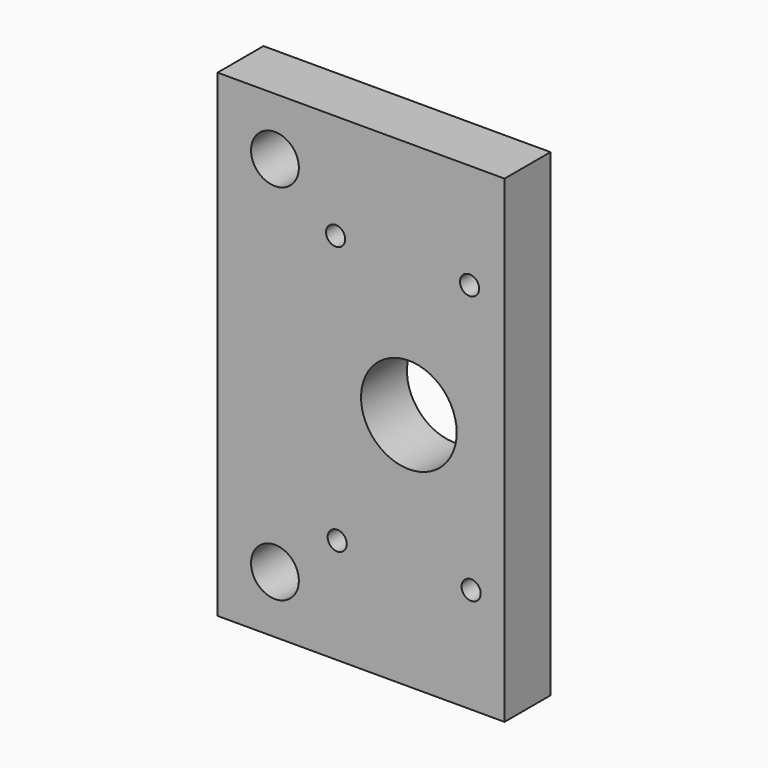
from build123d import *

# Parameters (mm, degrees)
F0_R     = 12.5
F0_R_2   = 5
F0_R_3   = 25
F1_DEPTH = 30


with BuildPart() as f1:
    # F0 (on Front) → F1 (new body)
    with BuildSketch(Plane.XZ):
        Polygon((75, -70), (75, 125), (-75, 125), (-75, -125), (75, -125), align=None)
        with Locations((-45, -95)):
            Circle(F0_R, mode=Mode.SUBTRACT)
        with Locations((-12.458926, -70)):
            Circle(F0_R_2, mode=Mode.SUBTRACT)
        with Locations((57.541074, -70)):
            Circle(F0_R_2, mode=Mode.SUBTRACT)
        with Locations((-45, 95)):
            Circle(F0_R, mode=Mode.SUBTRACT)
        with Locations((-13.282487, 70)):
            Circle(F0_R_2, mode=Mode.SUBTRACT)
        with Locations((25, 0)):
            Circle(F0_R_3, mode=Mode.SUBTRACT)
        with Locations((56.717513, 70)):
            Circle(F0_R_2, mode=Mode.SUBTRACT)
    extrude(amount=F1_DEPTH)


solid = f1.part
